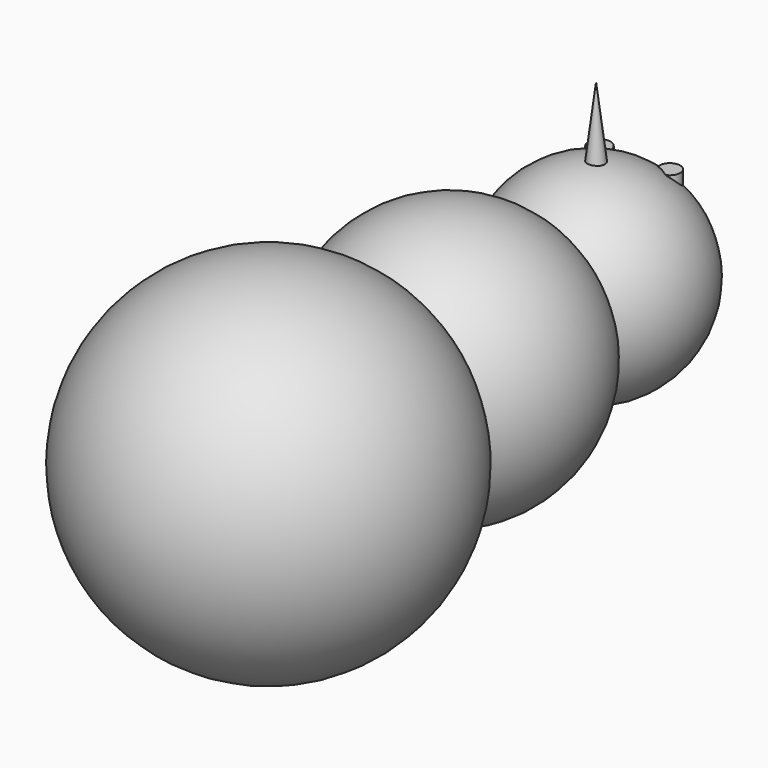
from build123d import *

# Parameters (mm, degrees)
F1_R     = 2.8210685725
F2_DEPTH = 76.2
F2_TAPER = 7
F4_R     = 1.3910819669
F5_DEPTH = 11
F4_R_2   = 1.5046868022


with BuildPart() as f2:
    # F1 (on Top) → F2 (new body)
    with BuildSketch(Plane.XY):
        with Locations((0, 63.2753148675)):
            Circle(F1_R)
    extrude(amount=F2_DEPTH, taper=F2_TAPER)


with BuildPart() as f3:
    # F0 (on Top) → F3 (revolve)
    with BuildSketch(Plane.XY):
        with BuildLine():
            Line((0, -15.4785856169), (0, 76.333065689))
            ThreePointArc((0, 76.333065689), (-12.5164699105, 68.1159808946), (-9.9538309344, 53.3641883589))
            ThreePointArc((-9.9538309344, 53.3641883589), (-17.7502932736, 41.0051421787), (-13.7619409873, 26.9472656131))
            ThreePointArc((-13.7619409873, 26.9472656131), (-22.3010306507, 0.7324378146), (0, -15.4785856169))
        make_face()
    revolve(axis=Axis((0, 30.4272400361, 0), (0, -1, 0)))


with BuildPart() as f5:
    # F4 (on Top) → F5 (new body)
    with BuildSketch(Plane.XY):
        with Locations((4.1739786975, 70.5148950219)):
            Circle(F4_R)
    extrude(amount=F5_DEPTH)


with BuildPart() as f5b:
    # F4 (on Top) → F5, piece 2 (new body)
    with BuildSketch(Plane.XY):
        with Locations((-4.9649793655, 70.0650662184)):
            Circle(F4_R_2)
    extrude(amount=F5_DEPTH)


solid = Compound([f2.part, f3.part, f5.part, f5b.part])
